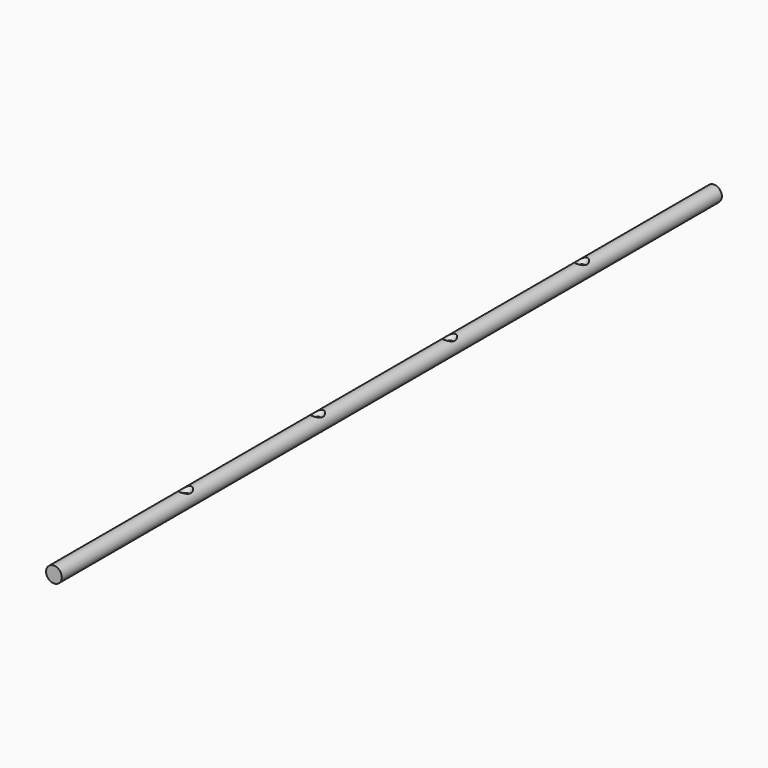
from build123d import *

# Parameters (mm, degrees)
F0_R           = 4
F1_DEPTH       = 420
F4_D           = 2.4
F4_DEPTH       = 100
F4_CSINK_D     = 6.72
F4_CSINK_ANGLE = 90
F4_TIP         = 0.7210327428


with BuildPart() as f1:
    # F0 (on Front) → F1 (new body)
    with BuildSketch(Plane.XZ):
        Circle(F0_R)
    extrude(amount=-F1_DEPTH)

    # F4
    with Locations(Plane.XY.offset(4)):
        with Locations((0, 84), (0, 168), (0, 252), (0, 336)):
            CounterSinkHole(F4_D / 2, F4_CSINK_D / 2, depth=F4_DEPTH, counter_sink_angle=F4_CSINK_ANGLE)
            with Locations((0, 0, -(F4_DEPTH + F4_TIP / 2))):  # 118° drill point
                Cone(0, F4_D / 2, F4_TIP, mode=Mode.SUBTRACT)


solid = f1.part
